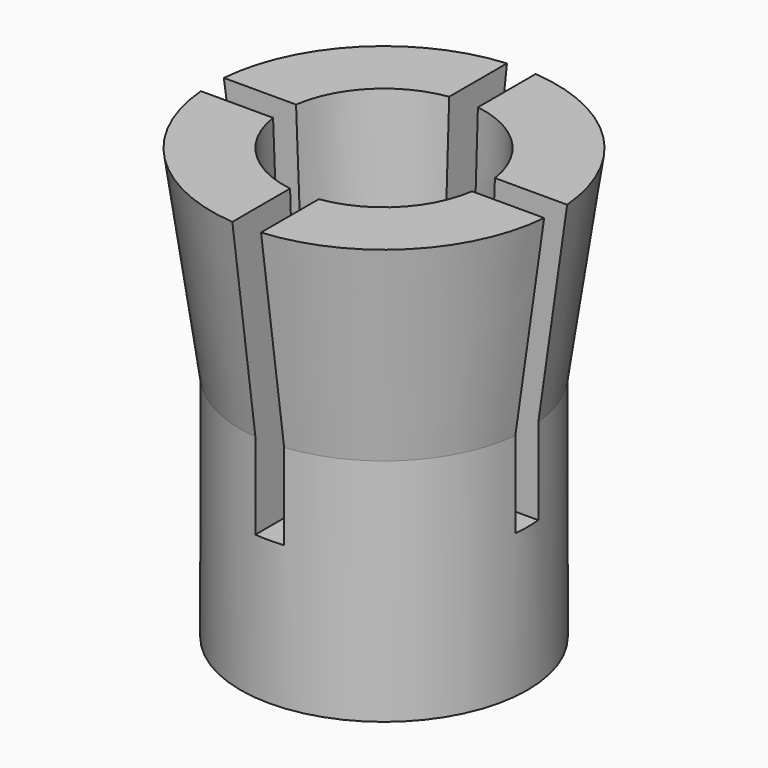
from build123d import *

# Parameters (mm, degrees)
F3_D     = 4.2
F5_DEPTH = 10


with BuildPart() as f1:
    # F0 (on Front) → F1 (revolve)
    with BuildSketch(Plane.XZ):
        Polygon((-5, 0), (0, 0), (0, 2), (-3, 2), (-3.5, 15), (-6, 15), (-5, 8), align=None)
    revolve(axis=Axis((0, 0, 1), (0, 0, 1)))

    # F3 (through all)
    with Locations(Plane(origin=(0, 0, 0), x_dir=(1, 0, 0), z_dir=(0, 0, -1))):
        with Locations((0, 0)):
            Hole(F3_D / 2)

    # F4 (on face) → F5 (cut)
    with BuildSketch(Plane.XY.offset(15)):
        with BuildLine():
            Line((-2.0396078054, 0.5), (-3.4641016151, 0.5))
            ThreePointArc((-3.4641016151, 0.5), (-3.5, 0), (-3.4641016151, -0.5))
            Line((-3.4641016151, -0.5), (-2.0396078054, -0.5))
            ThreePointArc((-2.0396078054, -0.5), (-2.1, 0), (-2.0396078054, 0.5))
        make_face()
        with BuildLine():
            Line((-3.4641016151, 0.5), (-5.9791303716, 0.5))
            ThreePointArc((-5.9791303716, 0.5), (-6, 0), (-5.9791303716, -0.5))
            Line((-5.9791303716, -0.5), (-3.4641016151, -0.5))
            ThreePointArc((-3.4641016151, -0.5), (-3.5, 0), (-3.4641016151, 0.5))
        make_face()
        with BuildLine():
            ThreePointArc((0.5, 3.4641016151), (0, 3.5), (-0.5, 3.4641016151))
            Line((-0.5, 3.4641016151), (-0.5, 2.0396078054))
            ThreePointArc((-0.5, 2.0396078054), (0, 2.1), (0.5, 2.0396078054))
            Line((0.5, 2.0396078054), (0.5, 3.4641016151))
        make_face()
        with BuildLine():
            ThreePointArc((0.5, 5.9791303716), (0, 6), (-0.5, 5.9791303716))
            Line((-0.5, 5.9791303716), (-0.5, 3.4641016151))
            ThreePointArc((-0.5, 3.4641016151), (0, 3.5), (0.5, 3.4641016151))
            Line((0.5, 3.4641016151), (0.5, 5.9791303716))
        make_face()
        with BuildLine():
            ThreePointArc((3.5, 0), (3.491013868, 0.2506435188), (3.4641016151, 0.5))
            Line((3.4641016151, 0.5), (2.0396078054, 0.5))
            ThreePointArc((2.0396078054, 0.5), (2.1, 0), (2.0396078054, -0.5))
            Line((2.0396078054, -0.5), (3.4641016151, -0.5))
            ThreePointArc((3.4641016151, -0.5), (3.491013868, -0.2506435188), (3.5, 0))
        make_face()
        with BuildLine():
            ThreePointArc((6, 0), (5.9947803225, 0.2502176759), (5.9791303716, 0.5))
            Line((5.9791303716, 0.5), (3.4641016151, 0.5))
            ThreePointArc((3.4641016151, 0.5), (3.491013868, 0.2506435188), (3.5, 0))
            ThreePointArc((3.5, 0), (3.491013868, -0.2506435188), (3.4641016151, -0.5))
            Line((3.4641016151, -0.5), (5.9791303716, -0.5))
            ThreePointArc((5.9791303716, -0.5), (5.9947803225, -0.2502176759), (6, 0))
        make_face()
        with BuildLine():
            Line((-0.5, -2.0396078054), (-0.5, -3.4641016151))
            ThreePointArc((-0.5, -3.4641016151), (0, -3.5), (0.5, -3.4641016151))
            Line((0.5, -3.4641016151), (0.5, -2.0396078054))
            ThreePointArc((0.5, -2.0396078054), (0, -2.1), (-0.5, -2.0396078054))
        make_face()
        with BuildLine():
            Line((-0.5, -3.4641016151), (-0.5, -5.9791303716))
            ThreePointArc((-0.5, -5.9791303716), (0, -6), (0.5, -5.9791303716))
            Line((0.5, -5.9791303716), (0.5, -3.4641016151))
            ThreePointArc((0.5, -3.4641016151), (0, -3.5), (-0.5, -3.4641016151))
        make_face()
    extrude(amount=-F5_DEPTH, mode=Mode.SUBTRACT)


solid = f1.part
